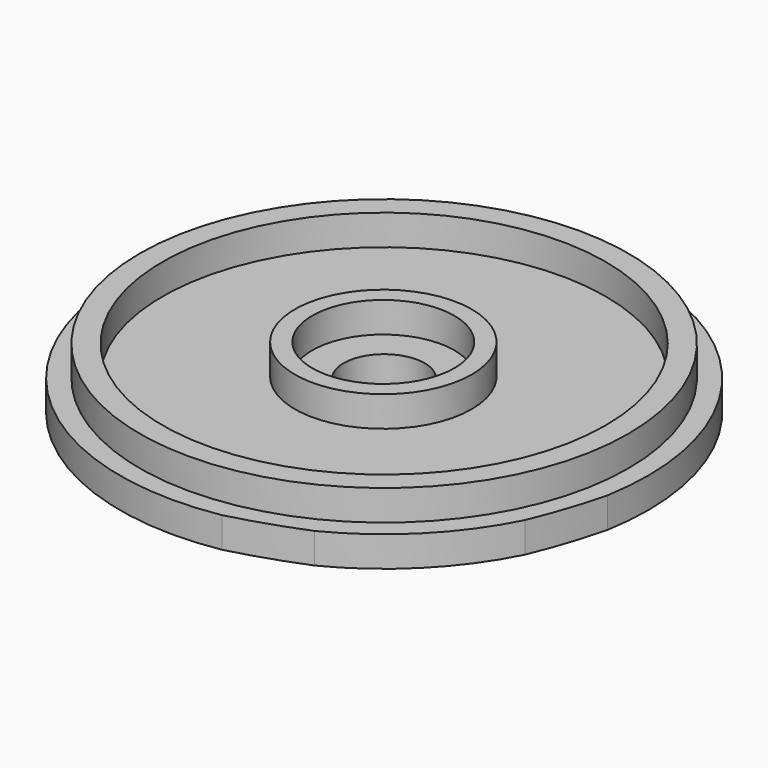
from build123d import *

# Parameters (mm, degrees)
F0_R     = 12.0291917003
F0_R_2   = 10.9089247003
F0_R_3   = 10
F0_R_4   = 4.355405347
F0_R_5   = 3.5
F0_R_6   = 2
F1_DEPTH = 1.5
F2_DEPTH = 3
F3_DEPTH = 25.4


with BuildPart() as f1:
    # F0 (on Top) → F1 (new body)
    with BuildSketch(Plane.XY):
        with BuildLine():
            ThreePointArc((9.2903810009, -3.5340649529), (9.956324904, -1.7586338449), (10.4848555288, 0.062435149))
            ThreePointArc((10.4848555288, 0.062435149), (-11.5103310146, 11.5102886119), (-0.0624775516, -10.4848979314))
            ThreePointArc((-0.0624775516, -10.4848979314), (1.7563351899, -9.9492852383), (3.5341859381, -9.2903410352))
            ThreePointArc((3.5341859381, -9.2903410352), (6.8744732182, -6.8743862374), (9.2903810009, -3.5340649529))
        make_face()
        with Locations((-2.3179612439, 2.3179188413)):
            Circle(F0_R, mode=Mode.SUBTRACT)
        with Locations((-2.3179612439, 2.3179188413)):
            Circle(F0_R)
        with Locations((-2.3179612439, 2.3179188413)):
            Circle(F0_R_2, mode=Mode.SUBTRACT)
        with Locations((-2.3179612439, 2.3179188413)):
            Circle(F0_R_2)
        with Locations((-2.4294834584, 2.4055044632)):
            Circle(F0_R_3, mode=Mode.SUBTRACT)
        with Locations((-2.4294834584, 2.4055044632)):
            Circle(F0_R_3)
        with Locations((-2.4294834584, 2.4055044632)):
            Circle(F0_R_4, mode=Mode.SUBTRACT)
        with Locations((-2.4294834584, 2.4055044632)):
            Circle(F0_R_4)
        with Locations((-2.4294834584, 2.4055044632)):
            Circle(F0_R_5, mode=Mode.SUBTRACT)
        with Locations((-2.4294834584, 2.4055044632)):
            Circle(F0_R_5)
        with Locations((-2.3179612439, 2.3179188413)):
            Circle(F0_R_6, mode=Mode.SUBTRACT)
        with Locations((-2.3179612439, 2.3179188413)):
            Circle(F0_R_6)
    extrude(amount=F1_DEPTH)

    # F0 (on Top) → F2 (join)
    with BuildSketch(Plane.XY):
        with Locations((-2.3179612439, 2.3179188413)):
            Circle(F0_R)
        with Locations((-2.3179612439, 2.3179188413)):
            Circle(F0_R_2, mode=Mode.SUBTRACT)
        with Locations((-2.4294834584, 2.4055044632)):
            Circle(F0_R_4)
        with Locations((-2.4294834584, 2.4055044632)):
            Circle(F0_R_5, mode=Mode.SUBTRACT)
    extrude(amount=F2_DEPTH)

    # F0 (on Top) → F3 (cut)
    with BuildSketch(Plane.XY):
        with Locations((-2.3179612439, 2.3179188413)):
            Circle(F0_R_6)
    extrude(amount=F3_DEPTH, mode=Mode.SUBTRACT)


solid = f1.part
